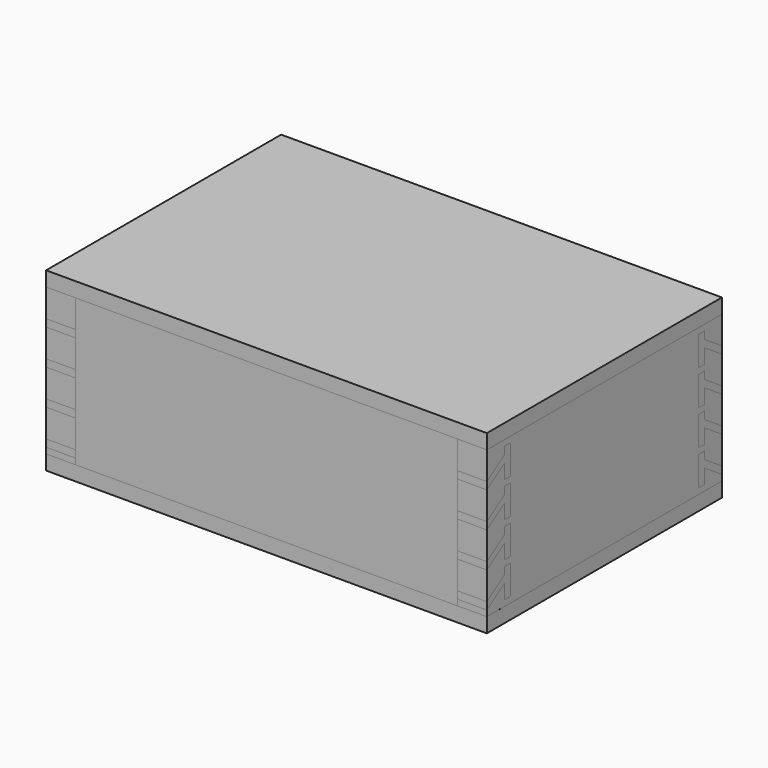
from build123d import *

# Parameters (mm, degrees)
SKETCH_W         = 300
SKETCH_H         = 200
PAD_DEPTH        = 10
ARRAY002_Z_COUNT = 2
ARRAY002_Z_PITCH = 110
PAD009_DEPTH     = 20
ARRAY005_X_COUNT = 2
ARRAY005_X_PITCH = 280
ARRAY005_Z_COUNT = 4
ARRAY005_Z_PITCH = 24
PAD008_DEPTH     = 20
ARRAY006_X_COUNT = 2
ARRAY006_X_PITCH = 280
ARRAY006_Z_COUNT = 4
ARRAY006_Z_PITCH = 24
PAD007_DEPTH     = 20
ARRAY001_X_COUNT = 2
ARRAY001_X_PITCH = 280
ARRAY001_Z_COUNT = 4
ARRAY001_Z_PITCH = 24
PAD006_DEPTH     = 20
ARRAY_X_COUNT    = 2
ARRAY_X_PITCH    = 280
ARRAY_Z_COUNT    = 4
ARRAY_Z_PITCH    = 24
SKETCH002_W      = 200
SKETCH002_H      = 100
PAD002_DEPTH     = 20
ARRAY003_X_COUNT = 2
ARRAY003_X_PITCH = 280
SKETCH010_W      = 20
SKETCH010_H      = 100
PAD010_DEPTH     = 20
ARRAY007_X_COUNT = 2
ARRAY007_X_PITCH = 280
ARRAY007_Y_COUNT = 2
ARRAY007_Y_PITCH = 180
SKETCH004_W      = 300
SKETCH004_H      = 100
PAD004_DEPTH     = 20
ARRAY004_Y_COUNT = 2
ARRAY004_Y_PITCH = 180


with BuildPart() as array_covers:
    # Sketch → Pad (new body)
    with BuildSketch(Plane.XY):
        with Locations((150, 100)):
            Rectangle(SKETCH_W, SKETCH_H)
    extrude(amount=-PAD_DEPTH)

    # Array002 Z: Array, Covers ×2


with BuildPart() as array_covers_1:
    add(array_covers.part)
    with Locations(*[(0, 0, i * ARRAY002_Z_PITCH) for i in range(1, ARRAY002_Z_COUNT)]):
        add(array_covers.part)


with BuildPart() as array_joints_dowels_back:
    # Sketch008 → Pad009 (new body)
    with BuildSketch(Plane(origin=(0, 200, 0), x_dir=(0, 1, 0), z_dir=(1, 0, 0))):
        Polygon((0, 9), (0, 4), (-15, 14), (-15, 4), (-20, 4), (-20, 24), (-15, 24), (-15, 19), align=None)
    extrude(amount=PAD009_DEPTH)

    # Array005 X: Array, Joints, Dowels, Back ×2


with BuildPart() as array_joints_dowels_back_1:
    add(array_joints_dowels_back.part)
    with Locations(*[(i * ARRAY005_X_PITCH, 0, 0) for i in range(1, ARRAY005_X_COUNT)]):
        add(array_joints_dowels_back.part)

    # Array005 Z: Array, Joints, Dowels, Back ×4


with BuildPart() as array_joints_dowels_back_2:
    add(array_joints_dowels_back_1.part)
    with Locations(*[(0, 0, i * ARRAY005_Z_PITCH) for i in range(1, ARRAY005_Z_COUNT)]):
        add(array_joints_dowels_back_1.part)


with BuildPart() as array_joints_dowels_front:
    # Sketch009 → Pad008 (new body)
    with BuildSketch(Plane.YZ):
        Polygon((0, 4), (0, 9), (15, 19), (15, 24), (20, 24), (20, 4), (15, 4), (15, 14), align=None)
    extrude(amount=PAD008_DEPTH)

    # Array006 X: Array, Joints, Dowels, Front ×2


with BuildPart() as array_joints_dowels_front_1:
    add(array_joints_dowels_front.part)
    with Locations(*[(i * ARRAY006_X_PITCH, 0, 0) for i in range(1, ARRAY006_X_COUNT)]):
        add(array_joints_dowels_front.part)

    # Array006 Z: Array, Joints, Dowels, Front ×4


with BuildPart() as array_joints_dowels_front_2:
    add(array_joints_dowels_front_1.part)
    with Locations(*[(0, 0, i * ARRAY006_Z_PITCH) for i in range(1, ARRAY006_Z_COUNT)]):
        add(array_joints_dowels_front_1.part)


with BuildPart() as array_joints_cut_back:
    # Sketch007 → Pad007 (new body)
    with BuildSketch(Plane(origin=(0, 200, 0), x_dir=(0, 1, 0), z_dir=(1, 0, 0))):
        Polygon((0, 4), (-15, 14), (-15, 4), (-20, 4), (-20, 24), (-15, 24), (-15, 19), (0, 9), align=None)
    extrude(amount=PAD007_DEPTH)

    # Array001 X: Array, Joints, Cut, Back ×2


with BuildPart() as array_joints_cut_back_1:
    add(array_joints_cut_back.part)
    with Locations(*[(i * ARRAY001_X_PITCH, 0, 0) for i in range(1, ARRAY001_X_COUNT)]):
        add(array_joints_cut_back.part)

    # Array001 Z: Array, Joints, Cut, Back ×4


with BuildPart() as array_joints_cut_back_2:
    add(array_joints_cut_back_1.part)
    with Locations(*[(0, 0, i * ARRAY001_Z_PITCH) for i in range(1, ARRAY001_Z_COUNT)]):
        add(array_joints_cut_back_1.part)


with BuildPart() as fusion:
    # Sketch006 → Pad006 (new body)
    with BuildSketch(Plane.YZ):
        Polygon((0, 4), (0, 9), (15, 19), (15, 24), (20, 24), (20, 4), (15, 4), (15, 14), align=None)
    extrude(amount=PAD006_DEPTH)

    # Array X: Fusion ×2


with BuildPart() as fusion_1:
    add(fusion.part)
    with Locations(*[(i * ARRAY_X_PITCH, 0, 0) for i in range(1, ARRAY_X_COUNT)]):
        add(fusion.part)

    # Array Z: Fusion ×4


with BuildPart() as fusion_2:
    add(fusion_1.part)
    with Locations(*[(0, 0, i * ARRAY_Z_PITCH) for i in range(1, ARRAY_Z_COUNT)]):
        add(fusion_1.part)

    # Fusion: union Array, Joints, Cut, Back
    add(array_joints_cut_back_2.part)


with BuildPart() as sides_cut:
    # Sketch002 → Pad002 (new body)
    with BuildSketch(Plane.YZ):
        with Locations((100, 50)):
            Rectangle(SKETCH002_W, SKETCH002_H)
    extrude(amount=PAD002_DEPTH)

    # Array003 X: Sides, cut ×2


with BuildPart() as sides_cut_1:
    add(sides_cut.part)
    with Locations(*[(i * ARRAY003_X_PITCH, 0, 0) for i in range(1, ARRAY003_X_COUNT)]):
        add(sides_cut.part)

    # Cut: cut Fusion
    add(fusion_2.part, mode=Mode.SUBTRACT)


with BuildPart() as array_boxcut:
    # Sketch010 → Pad010 (new body)
    with BuildSketch(Plane.YZ):
        with Locations((10, 50)):
            Rectangle(SKETCH010_W, SKETCH010_H)
    extrude(amount=PAD010_DEPTH)

    # Array007 X: Array, BoxCut ×2


with BuildPart() as array_boxcut_1:
    add(array_boxcut.part)
    with Locations(*[(i * ARRAY007_X_PITCH, 0, 0) for i in range(1, ARRAY007_X_COUNT)]):
        add(array_boxcut.part)

    # Array007 Y: Array, BoxCut ×2


with BuildPart() as array_boxcut_2:
    add(array_boxcut_1.part)
    with Locations(*[(0, i * ARRAY007_Y_PITCH, 0) for i in range(1, ARRAY007_Y_COUNT)]):
        add(array_boxcut_1.part)


with BuildPart() as fronts_cut:
    # Sketch004 → Pad004 (new body)
    with BuildSketch(Plane.XZ):
        with Locations((150, 50)):
            Rectangle(SKETCH004_W, SKETCH004_H)
    extrude(amount=-PAD004_DEPTH)

    # Array004 Y: Fronts, cut ×2


with BuildPart() as fronts_cut_1:
    add(fronts_cut.part)
    with Locations(*[(0, i * ARRAY004_Y_PITCH, 0) for i in range(1, ARRAY004_Y_COUNT)]):
        add(fronts_cut.part)

    # Cut001: cut Array, BoxCut
    add(array_boxcut_2.part, mode=Mode.SUBTRACT)


solid = Compound([array_covers_1.part, array_joints_dowels_back_2.part, array_joints_dowels_front_2.part, sides_cut_1.part, fronts_cut_1.part])
